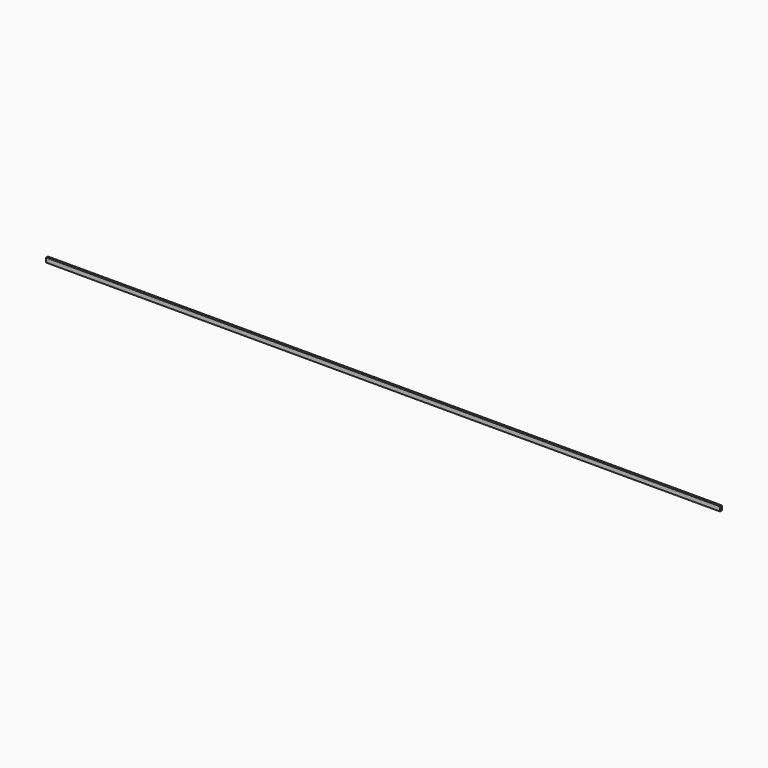
from build123d import *

# Parameters (mm, degrees)
F0_W = 20
F0_H = 40


with BuildPart() as f2:
    # F2: sweep along a path in F1
    with BuildLine(Plane.XZ) as f2_path:
        Line((0, 0), (-6000, 0))
    # F0 (on Right) → F2 (sweep)
    with BuildSketch(Plane.YZ):
        with Locations((-10, 20)):
            Rectangle(F0_W, F0_H)
    sweep(path=f2_path.line)


solid = f2.part
